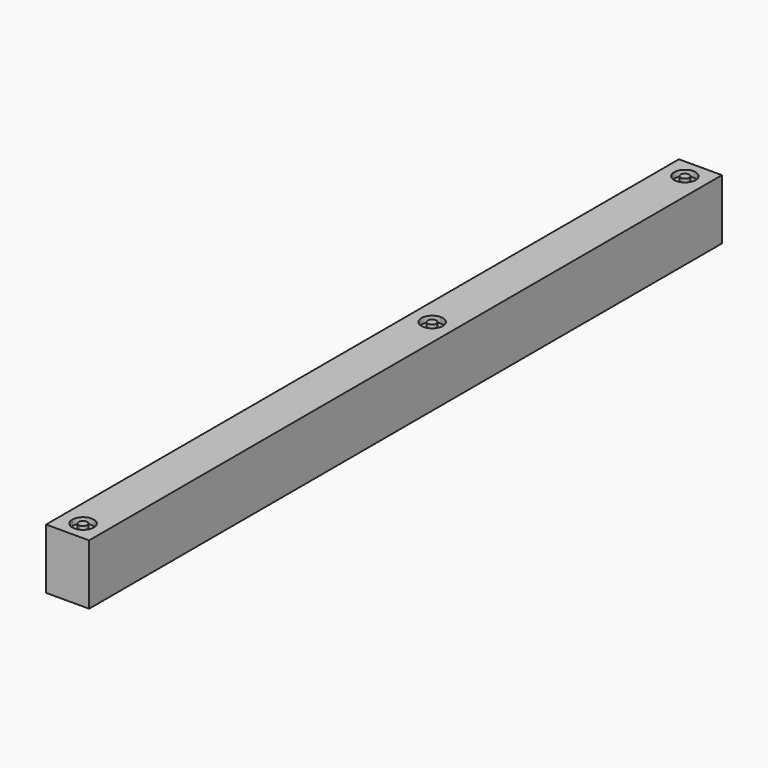
from build123d import *

# Parameters (mm, degrees)
F0_W     = 15.875
F0_H     = 22.225
F1_DEPTH = 292.1
F3_DEPTH = 2.1166666667


with BuildPart() as f1:
    # F0 (on Front) → F1 (new body)
    with BuildSketch(Plane.XZ):
        with Locations((7.9375, 11.1125)):
            Rectangle(F0_W, F0_H)
    extrude(amount=-F1_DEPTH)

    # F2 (on face) → F3 (cut)
    with BuildSketch(Plane.XY.offset(22.225)):
        with BuildLine():
            ThreePointArc((7.9375, 280.9875), (10.7438300378, 282.1499199622), (11.90625, 284.95625))
            ThreePointArc((11.90625, 284.95625), (5.1311699622, 287.7625800378), (7.9375, 280.9875))
        make_face()
        with BuildLine():
            ThreePointArc((9.525, 284.95625), (9.0600320151, 283.8337179849), (7.9375, 283.36875))
            ThreePointArc((7.9375, 283.36875), (6.8149679849, 286.0787820151), (9.525, 284.95625))
        make_face(mode=Mode.SUBTRACT)
        with BuildLine():
            ThreePointArc((11.90625, 168.27627), (10.7438300378, 171.0826000378), (7.9375, 172.24502))
            ThreePointArc((7.9375, 172.24502), (5.1311699622, 165.4699399622), (11.90625, 168.27627))
        make_face()
        with BuildLine():
            ThreePointArc((9.525, 168.27627), (6.8149679849, 167.1537379849), (7.9375, 169.86377))
            ThreePointArc((7.9375, 169.86377), (9.0600320151, 169.3988020151), (9.525, 168.27627))
        make_face(mode=Mode.SUBTRACT)
        with BuildLine():
            Line((9.525, 7.14375), (11.90625, 7.14375))
            ThreePointArc((11.90625, 7.14375), (7.9375, 11.1125), (3.96875, 7.14375))
            Line((3.96875, 7.14375), (6.35, 7.14375))
            ThreePointArc((6.35, 7.14375), (7.9375, 8.73125), (9.525, 7.14375))
        make_face()
        with BuildLine():
            Line((6.35, 7.14375), (3.96875, 7.14375))
            ThreePointArc((3.96875, 7.14375), (5.1311699622, 4.3374199622), (7.9375, 3.175))
            Line((7.9375, 3.175), (7.9375, 5.55625))
            ThreePointArc((7.9375, 5.55625), (6.8149679849, 6.0212179849), (6.35, 7.14375))
        make_face()
        with BuildLine():
            ThreePointArc((7.9375, 3.175), (10.7438300378, 4.3374199622), (11.90625, 7.14375))
            Line((11.90625, 7.14375), (9.525, 7.14375))
            ThreePointArc((9.525, 7.14375), (9.0600320151, 6.0212179849), (7.9375, 5.55625))
            Line((7.9375, 5.55625), (7.9375, 3.175))
        make_face()
    extrude(amount=-F3_DEPTH, mode=Mode.SUBTRACT)


solid = f1.part
